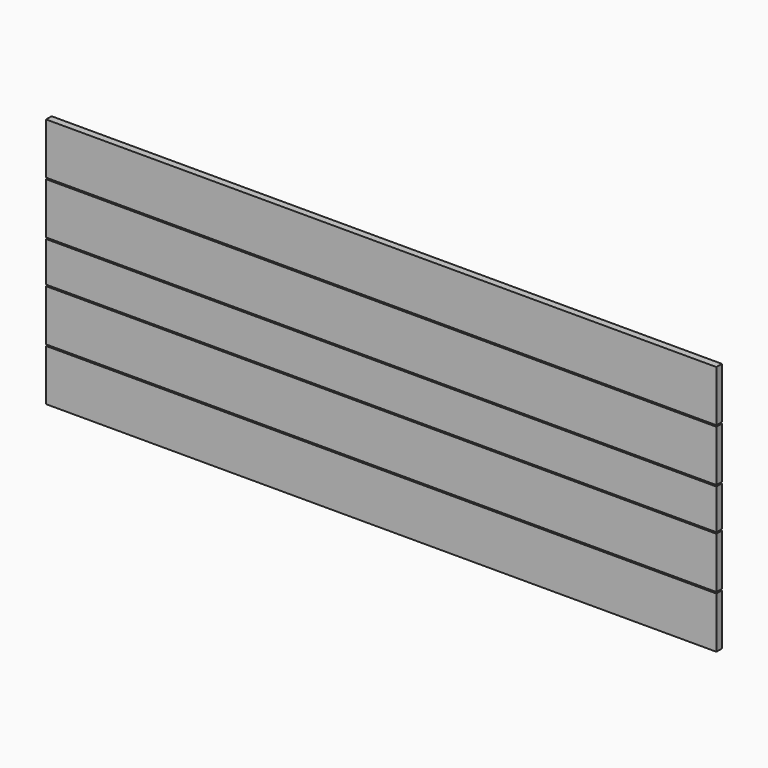
from build123d import *

# Parameters (mm, degrees)
F0_W     = 3073.4
F0_H     = 184.15
F0_H_2   = 234.95
F1_DEPTH = 31.75


with BuildPart() as f1:
    # F0 (on Front) → F1 (new body)
    with BuildSketch(Plane.XZ):
        with Locations((-29.999256, -30.914807)):
            Rectangle(F0_W, F0_H)
        with Locations((-29.999256, -246.814807)):
            Rectangle(F0_W, F0_H_2)
        with Locations((-29.999256, -488.114807)):
            Rectangle(F0_W, F0_H_2)
        with Locations((-29.999256, 184.985193)):
            Rectangle(F0_W, F0_H_2)
        with Locations((-29.999256, 426.285193)):
            Rectangle(F0_W, F0_H_2)
    extrude(amount=F1_DEPTH)


solid = f1.part
